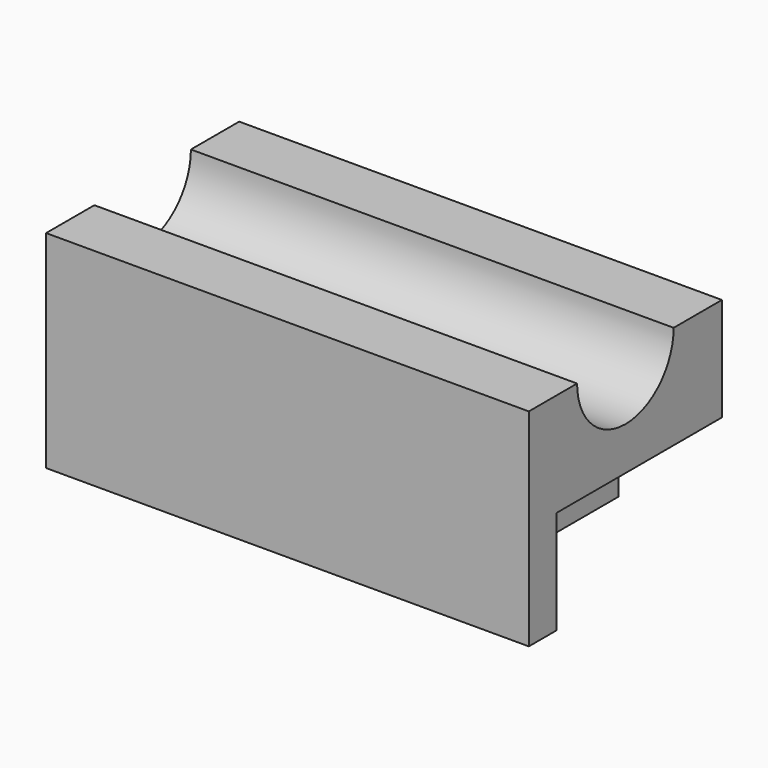
from build123d import *

# Parameters (mm, degrees)
F0_W     = 140
F0_H     = 70
F1_DEPTH = 60
F3_DEPTH = 142
F4_W     = 60
F4_H     = 30
F5_DEPTH = 30


with BuildPart() as f1:
    # F0 (on Top) → F1 (new body)
    with BuildSketch(Plane.XY):
        with Locations((-2.236115, 35)):
            Rectangle(F0_W, F0_H)
    extrude(amount=-F1_DEPTH)

    # F2 (on face) → F3 (cut)
    with BuildSketch(Plane.YZ.offset(67.763885)):
        with BuildLine():
            ThreePointArc((17.5, 0), (35, -17.5), (52.5, 0))
            Line((52.5, 0), (17.5, 0))
        make_face()
    extrude(amount=-F3_DEPTH, mode=Mode.SUBTRACT)

    # F4 (on face) → F5 (cut)
    with BuildSketch(Plane.YZ.offset(67.763885)):
        with Locations((40, -45)):
            Rectangle(F4_W, F4_H)
    extrude(amount=-F5_DEPTH, mode=Mode.SUBTRACT)


solid = f1.part
